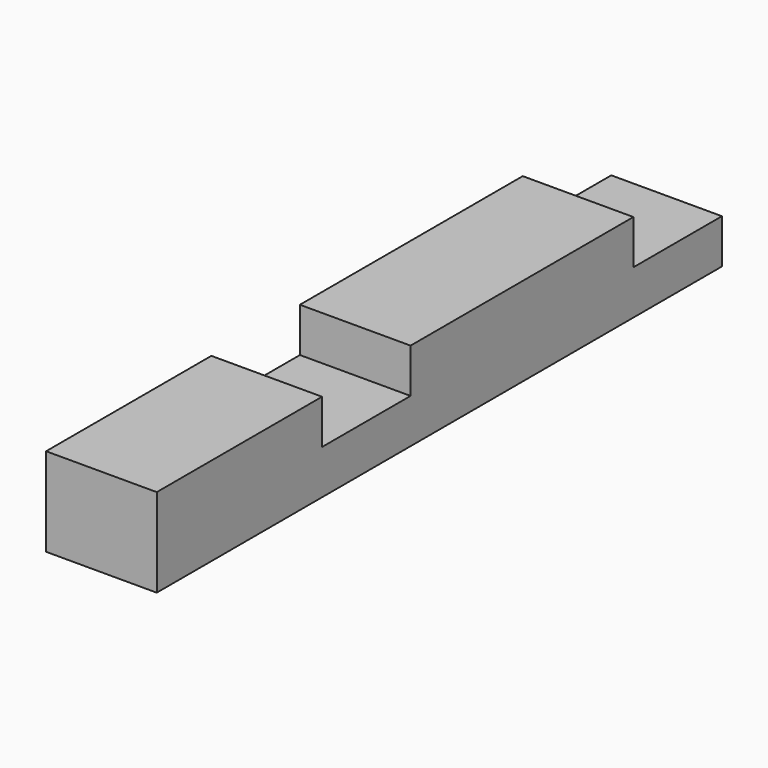
from build123d import *

# Parameters (mm, degrees)
F0_W     = 95.25
F0_H     = 76.2
F1_DEPTH = 608.0125
F2_W     = 95.25
F2_H     = 95.25
F3_DEPTH = 38.1


with BuildPart() as f1:
    # F0 (on Front) → F1 (new body)
    with BuildSketch(Plane.XZ):
        with Locations((47.625, -38.1)):
            Rectangle(F0_W, F0_H)
    extrude(amount=F1_DEPTH)

    # F2 (on face) → F3 (cut)
    with BuildSketch(Plane.XY):
        with Locations((47.625, -47.625)):
            Rectangle(F2_W, F2_H)
        with Locations((47.625, -382.5875)):
            Rectangle(F2_W, F2_H)
    extrude(amount=-F3_DEPTH, mode=Mode.SUBTRACT)


solid = f1.part
